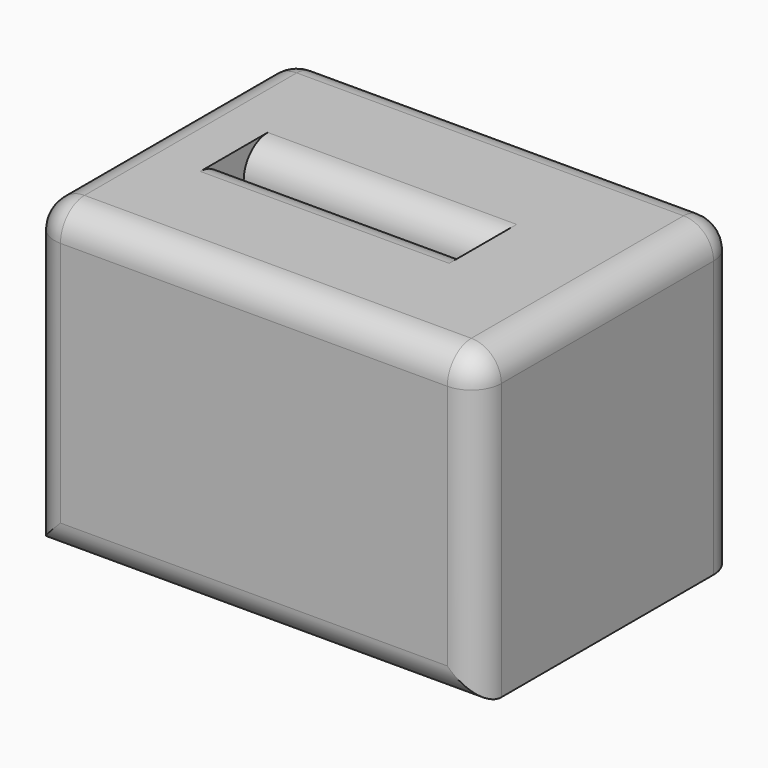
from build123d import *

# Parameters (mm, degrees)
F0_W     = 75.603081
F0_H     = 55.037481
F1_DEPTH = 51.816
F2_R     = 5.08
F3_R     = 5.08


with BuildPart() as f1:
    # F0 (on Top) → F1 (new body)
    with BuildSketch(Plane.XY):
        with Locations((8.422104, -12.143501)):
            Rectangle(F0_W, F0_H)
        Polygon((-16.648348, -10.478666), (-7.246927, -10.478666), (25.462179, -10.478666), (25.462179, -14.591787), (-7.246927, -14.591787), (-12.339364, -14.591787), (-16.648348, -14.591787), (-16.648348, -11.262118), align=None, mode=Mode.SUBTRACT)
    extrude(amount=F1_DEPTH)

    # F2
    f2_edges = [f1.edges().sort_by_distance(p)[0] for p in [
        (4.406915, -14.591787, 51.816),
    ]]
    fillet(f2_edges, radius=F2_R)

    # F3
    f3_edges = [f1.edges().sort_by_distance(p)[0] for p in [
        (8.422104, 15.375239, 51.816),
        (8.422104, -39.662242, 51.816),
        (46.223644, -12.143502, 51.816),
        (-29.379437, -12.143502, 51.816),
        (4.406915, -10.478666, 51.816),
        (-29.379437, -39.662242, 25.908),
        (46.223644, -39.662242, 25.908),
        (8.422104, -39.662242, 0),
        (46.223644, 15.375239, 25.908),
        (-29.379437, 15.375239, 25.908),
    ]]
    fillet(f3_edges, radius=F3_R)


solid = f1.part
